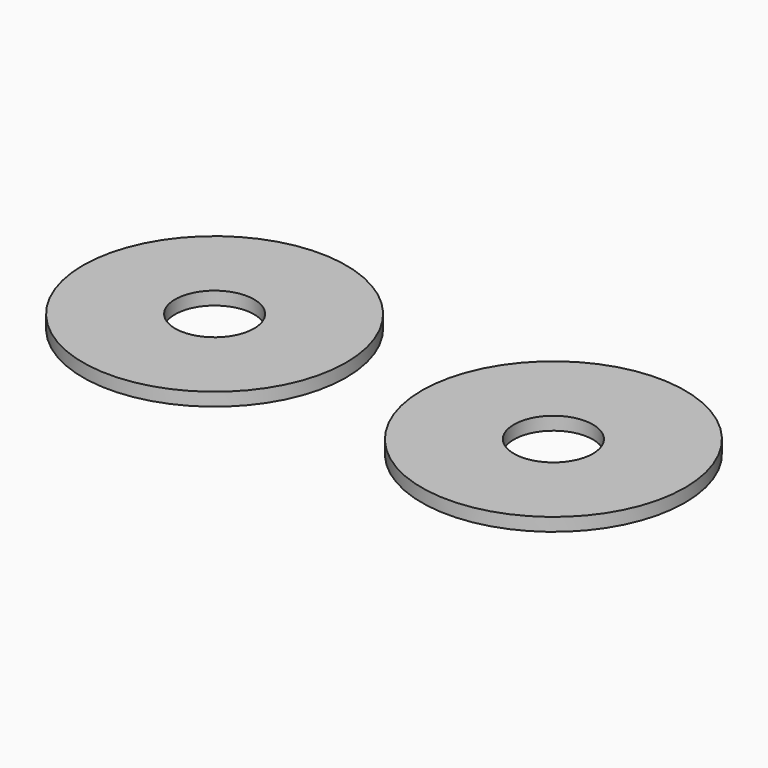
from build123d import *

# Parameters (mm, degrees)
F0_R     = 50
F0_R_2   = 15
F1_DEPTH = 5


with BuildPart() as f1:
    # F0 (on Top) → F1 (new body)
    with BuildSketch(Plane.XY):
        Circle(F0_R)
        Circle(F0_R_2, mode=Mode.SUBTRACT)
        with Locations((128.704295, 0)):
            Circle(F0_R)
        with Locations((128.704295, 0)):
            Circle(F0_R_2, mode=Mode.SUBTRACT)
    extrude(amount=F1_DEPTH)


solid = f1.part
